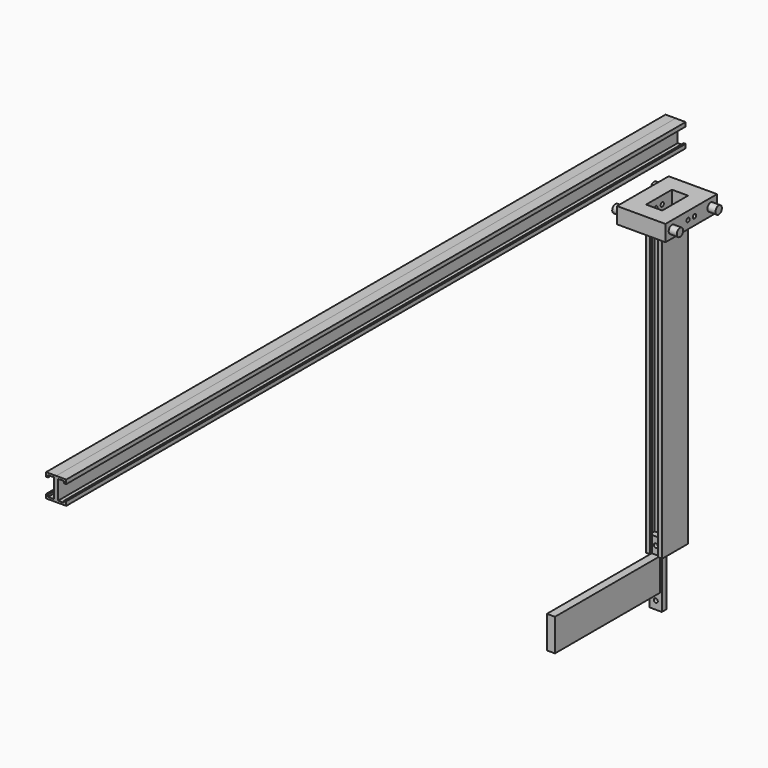
from build123d import *

# Parameters (mm, degrees)
F1_DEPTH  = 1219.2
F2_DEPTH  = 1219.2
F3_W      = 76.2
F3_H      = 25.4
F4_DEPTH  = 101.6
F5_R      = 6.35
F6_DEPTH  = 12.7
F7_R      = 6.35
F8_DEPTH  = 12.7
F9_W      = 25.4
F9_H      = 50.8
F10_DEPTH = 25.4
F11_R     = 3.175
F12_DEPTH = 88.901
F13_W     = 25.38984
F13_H     = 50.78984
F14_DEPTH = 457.2
F16_DEPTH = 566.481141426
F17_R     = 3.175
F18_DEPTH = 63.49592
F20_DEPTH = 50.8
F21_W     = 12.68476
F21_H     = 50.8
F22_DEPTH = 203.2
F24_DEPTH = 25.4
F26_DEPTH = 25.4
F27_R     = 3.175
F28_DEPTH = 73.01838


with BuildPart() as f1:
    # F0 (on Front) → F1 (new body)
    with BuildSketch(Plane.XZ):
        Polygon((-25.8535564797, 36.5125), (-25.8535564797, 30.1625), (-22.6785564797, 30.1625), (-22.6785564797, 33.3375), (-13.1535564797, 33.3375), (-13.1535564797, 3.175), (-22.6785564797, 3.175), (-22.6785564797, 6.35), (-25.8535564797, 6.35), (-25.8535564797, 0), (-9.9785564797, 0), (-9.9785564797, 36.5125), align=None)
    extrude(amount=F1_DEPTH)


with BuildPart() as f2:
    # F0 (on Front) → F2 (new body)
    with BuildSketch(Plane.XZ):
        Polygon((5.8964435203, 36.5125), (-9.9785564797, 36.5125), (-9.9785564797, 0), (5.8964435203, 0), (5.8964435203, 6.35), (2.7214435203, 6.35), (2.7214435203, 3.175), (-6.8035564797, 3.175), (-6.8035564797, 33.3375), (2.7214435203, 33.3375), (2.7214435203, 30.1625), (5.8964435203, 30.1625), align=None)
    extrude(amount=F2_DEPTH)


with BuildPart() as f4:
    # F3 (on Front) → F4 (new body)
    with BuildSketch(Plane.XZ):
        with Locations((17.2204952687, -60.067641426)):
            Rectangle(F3_W, F3_H)
    extrude(amount=F4_DEPTH)

    # F5 (on face) → F6 (join)
    with BuildSketch(Plane.YZ.offset(55.3204952687)):
        with Locations((-88.9, -60.067641426)):
            Circle(F5_R)
        with Locations((-12.7, -60.067641426)):
            Circle(F5_R)
    extrude(amount=F6_DEPTH)

    # F7 (on face) → F8 (join)
    with BuildSketch(Plane(origin=(-20.8795047313, 0, 0), x_dir=(0, -1, 0), z_dir=(-1, 0, 0))):
        with Locations((12.7, -60.067641426)):
            Circle(F7_R)
        with Locations((88.9, -60.067641426)):
            Circle(F7_R)
    extrude(amount=F8_DEPTH)

    # F9 (on face) → F10 (cut)
    with BuildSketch(Plane(origin=(0, 0, -72.767641426), x_dir=(1, 0, 0), z_dir=(0, 0, -1))):
        with Locations((17.2204952687, 50.8)):
            Rectangle(F9_W, F9_H)
    extrude(amount=-F10_DEPTH, mode=Mode.SUBTRACT)

    # F11 (on face) → F12 (cut, through all)
    with BuildSketch(Plane.YZ.offset(55.3204952687)):
        with Locations((-57.15, -60.067641426)):
            Circle(F11_R)
        with Locations((-44.45, -60.067641426)):
            Circle(F11_R)
    extrude(amount=-F12_DEPTH, mode=Mode.SUBTRACT)


with BuildPart() as f14:
    # F13 (on face) → F14 (new body)
    with BuildSketch(Plane(origin=(0, 0, -72.767641426), x_dir=(1, 0, 0), z_dir=(0, 0, -1))):
        with Locations((17.2204952687, 50.8)):
            Rectangle(F13_W, F13_H)
    extrude(amount=F14_DEPTH)

    # F15 (on face) → F16 (cut, through all)
    with BuildSketch(Plane(origin=(0, 0, -529.967641426), x_dir=(1, 0, 0), z_dir=(0, 0, -1))):
        Polygon((23.5654152687, 73.01992), (23.5654152687, 76.19492), (10.8755752687, 76.19492), (10.8755752687, 73.01992), (7.7005752687, 73.01992), (7.7005752687, 63.49492), (26.7404152687, 63.49492), (26.7404152687, 73.01992), align=None)
        Polygon((10.8755752687, 25.40508), (23.5654152687, 25.40508), (23.5654152687, 28.58008), (26.7404152687, 28.58008), (26.7404152687, 38.10508), (7.7005752687, 38.10508), (7.7005752687, 28.58008), (10.8755752687, 28.58008), align=None)
    extrude(amount=-F16_DEPTH, mode=Mode.SUBTRACT)

    # F17 (on face) → F18 (cut, through all)
    with BuildSketch(Plane.YZ.offset(29.9154152687)):
        with Locations((-57.15, -85.467641426)):
            Circle(F17_R)
        with Locations((-44.45, -85.467641426)):
            Circle(F17_R)
    extrude(amount=-F18_DEPTH, mode=Mode.SUBTRACT)


with BuildPart() as f20:
    # F19 (on face) → F20 (new body)
    with BuildSketch(Plane(origin=(0, 0, -529.967641426), x_dir=(1, 0, 0), z_dir=(0, 0, -1))):
        Polygon((23.5628752687, 73.01738), (23.5628752687, 76.2), (10.8781152687, 76.2), (10.8781152687, 73.01738), (7.7031152687, 73.01738), (7.7031152687, 63.49746), (26.7378752687, 63.49746), (26.7378752687, 73.01738), align=None)
        Polygon((23.5628752687, 73.01738), (23.5628752687, 76.2), (10.8781152687, 76.2), (10.8781152687, 73.01738), (7.7031152687, 73.01738), (7.7031152687, 63.49746), (26.7378752687, 63.49746), (26.7378752687, 73.01738), align=None)
    extrude(amount=F20_DEPTH)

    # F21 (on face) → F22 (join)
    with BuildSketch(Plane.XZ.offset(76.2)):
        with Locations((17.2204952687, -555.367641426)):
            Rectangle(F21_W, F21_H)
    extrude(amount=F22_DEPTH)

    # F23 (on face) → F24 (join)
    with BuildSketch(Plane(origin=(0, 0, -580.767641426), x_dir=(1, 0, 0), z_dir=(0, 0, -1))):
        Polygon((26.7378752687, 63.49746), (26.7378752687, 73.01738), (23.5628752687, 73.01738), (10.8781152687, 73.01738), (7.7031152687, 73.01738), (7.7031152687, 63.49746), align=None)
    extrude(amount=F24_DEPTH)

    # F25 (on face) → F26 (join)
    with BuildSketch(Plane.XY.offset(-529.967641426)):
        Polygon((23.5628752687, -73.01738), (26.7378752687, -73.01738), (26.7378752687, -63.49746), (7.7031152687, -63.49746), (7.7031152687, -73.01738), (10.8781152687, -73.01738), align=None)
    extrude(amount=F26_DEPTH)

    # F27 (on face) → F28 (cut, through all)
    with BuildSketch(Plane.XZ.offset(73.01738)):
        with Locations((17.2128752687, -517.267641426)):
            Circle(F27_R)
        with Locations((17.2128752687, -593.467641426)):
            Circle(F27_R)
    extrude(amount=-F28_DEPTH, mode=Mode.SUBTRACT)


solid = Compound([f1.part, f2.part, f4.part, f14.part, f20.part])
